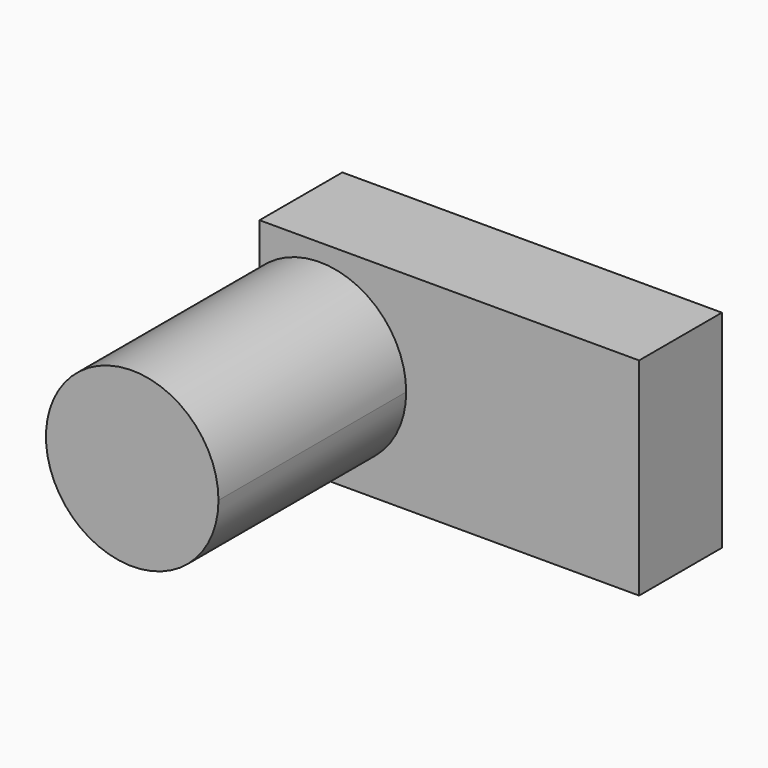
from build123d import *

# Parameters (mm, degrees)
F0_W     = 139.7
F0_H     = 38.1
F1_DEPTH = 76.2
F3_DEPTH = 86.36


with BuildPart() as f1:
    # F0 (on Top) → F1 (new body)
    with BuildSketch(Plane.XY):
        Rectangle(F0_W, F0_H)
    extrude(amount=F1_DEPTH)

    # F2 (on face) → F3 (join)
    with BuildSketch(Plane.XZ.offset(19.05)):
        with BuildLine():
            Line((-47.625, 6.35), (-47.625, 69.85))
            ThreePointArc((-47.625, 69.85), (-59.6283720361, 67.4935632369), (-69.85, 60.7740352606))
            Line((-69.85, 60.7740352606), (-69.85, 15.4259647394))
            ThreePointArc((-69.85, 15.4259647394), (-59.6283720361, 8.7064367631), (-47.625, 6.35))
        make_face()
        with BuildLine():
            ThreePointArc((-15.875, 38.1), (-25.1743596973, 60.5506403027), (-47.625, 69.85))
            Line((-47.625, 69.85), (-47.625, 6.35))
            ThreePointArc((-47.625, 6.35), (-25.1743596973, 15.6493596973), (-15.875, 38.1))
        make_face()
        with BuildLine():
            Line((-69.85, 15.4259647394), (-69.85, 60.7740352606))
            ThreePointArc((-69.85, 60.7740352606), (-79.375, 38.1), (-69.85, 15.4259647394))
        make_face()
    extrude(amount=F3_DEPTH)


solid = f1.part
